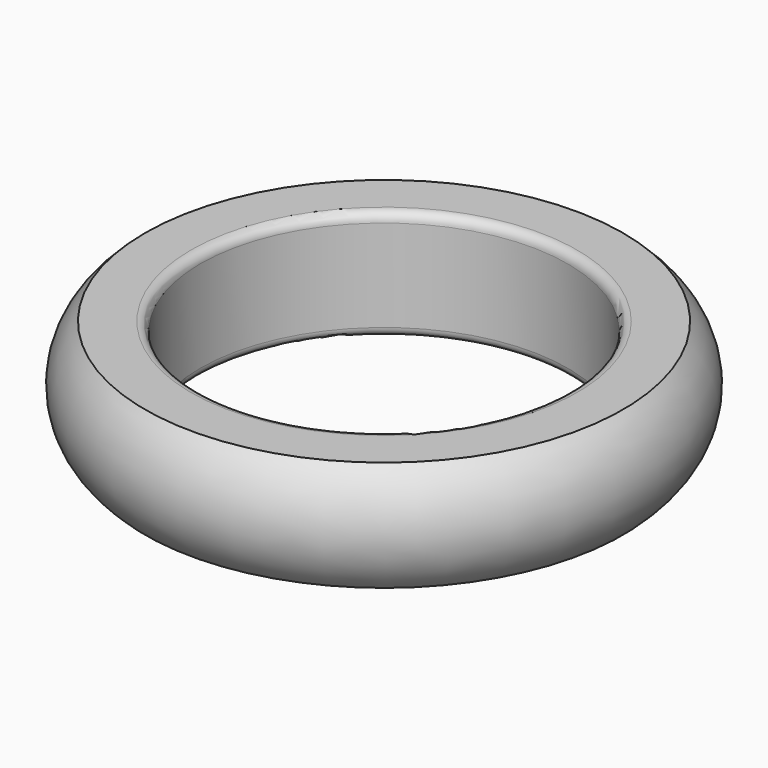
from build123d import *


with BuildPart() as f1:
    # F0 (on Front) → F1 (revolve)
    with BuildSketch(Plane.XZ):
        with BuildLine():
            ThreePointArc((-0.5, 0), (-0.146447, 0.146447), (0, 0.5))
            Line((0, 0.5), (0, 5.5))
            ThreePointArc((0, 5.5), (-0.146447, 5.853553), (-0.5, 6))
            Line((-0.5, 6), (-3, 6))
            ThreePointArc((-3, 6), (-4.354249, 3), (-3, 0))
            Line((-3, 0), (-0.5, 0))
        make_face()
    revolve(axis=Axis((10, 0, 3), (0, 0, 1)))


solid = f1.part
